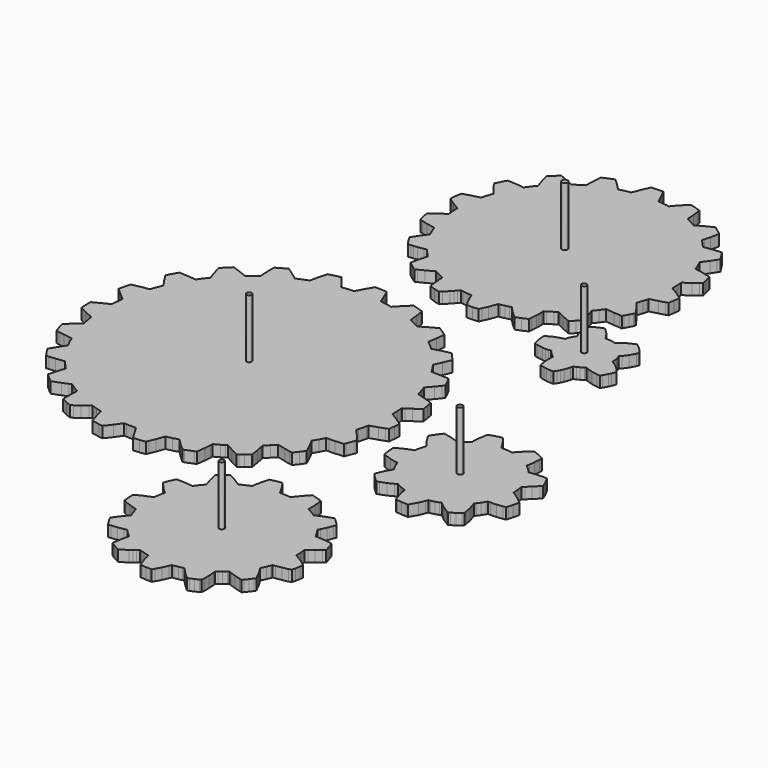
from build123d import *

# Parameters (mm, degrees)
F1_DEPTH = 4
F3_DEPTH = 4
F4_DEPTH = 4
F5_DEPTH = 4
F6_DEPTH = 4
F7_DEPTH = 4
F8_R     = 0.914457
F8_R_2   = 0.968889
F8_R_3   = 0.945783
F8_R_4   = 0.937892
F8_R_5   = 1.083862
F9_DEPTH = 25.4


with BuildPart() as f1:
    # F0 (on Top) → F1 (new body)
    with BuildSketch(Plane.XY):
        Polygon((23.910849, -18.788659), (23.914684, -18.643397), (23.859592, -16.48648), (23.773816, -15.006523), (23.722686, -14.334515), (24.540794, -13.82301), (26.317296, -12.649937), (28.841471, -10.826115), (28.51216, -8.70392), (28.251937, -7.249947), (28.153843, -6.773291), (28.112491, -6.593332), (25.068098, -5.558231), (22.974757, -4.945431), (22.01545, -4.695546), (21.791879, -3.908146), (21.356117, -2.49268), (20.881442, -1.089304), (20.654035, -0.455651), (22.678238, 1.862709), (24.035537, 3.534664), (24.624005, 4.30751), (23.73851, 6.265189), (22.764369, 8.179943), (21.765565, 8.255381), (19.555257, 8.350021), (16.396183, 8.360639), (16.321049, 8.484819), (15.157298, 10.299624), (13.919251, 12.064441), (15.247925, 14.84851), (16.461613, 17.728235), (16.347465, 17.873243), (16.037077, 18.247766), (14.087983, 20.465339), (13.625144, 20.951266), (10.499446, 20.262266), (7.43618, 19.405422), (6.843751, 19.971131), (4.591507, 21.898813), (4.061485, 22.314891), (4.603471, 25.366167), (4.987773, 28.4496), (3.877259, 29.233063), (1.970253, 30.455997), (1.398829, 30.807889), (-1.437615, 29.285667), (-3.313252, 28.17683), (-4.151249, 27.645868), (-4.87995, 28.01907), (-6.211494, 28.668218), (-8.006969, 29.478656), (-8.179333, 29.546372), (-8.490763, 32.607428), (-8.784819, 34.741764), (-8.947658, 35.699065), (-10.983265, 36.387507), (-13.047751, 36.983137), (-15.362555, 34.756065), (-17.527321, 32.450354), (-17.668697, 32.483146), (-17.849977, 32.520915), (-19.789496, 32.866787), (-21.255431, 33.08129), (-21.923756, 33.166177), (-22.260103, 34.070315), (-23.05177, 36.046461), (-24.330101, 38.885495), (-26.473709, 38.990524), (-27.948915, 39.027354), (-28.619475, 39.027938), (-30.249774, 36.252353), (-31.716701, 33.443418), (-34.009889, 33.250353), (-36.148594, 32.978877), (-36.712881, 33.750885), (-38.002286, 35.429673), (-39.359916, 37.096268), (-39.998701, 37.845416), (-42.092499, 37.362689), (-43.521528, 36.989817), (-44.167552, 36.806505), (-44.444666, 35.839527), (-44.994195, 33.710118), (-45.644867, 30.603901), (-45.957846, 30.498288), (-46.417281, 30.333518), (-48.531729, 29.499916), (-49.775948, 28.941674), (-50.531624, 29.537762), (-52.237183, 30.822214), (-54.802253, 32.580199), (-55.399661, 32.273824), (-57.970471, 30.820106), (-58.387005, 30.568671), (-58.542504, 30.46918), (-58.492314, 27.2542), (-58.43938, 26.095985), (-58.27809, 24.088496), (-59.508771, 23.214203), (-61.297617, 21.809989), (-61.674985, 21.499932), (-61.814939, 21.378443), (-64.681202, 22.512299), (-67.632859, 23.524185), (-69.181904, 22.037116), (-70.663943, 20.483068), (-70.400951, 19.51609), (-69.749441, 17.398162), (-69.047385, 15.338273), (-68.704587, 14.41544), (-70.126809, 12.605969), (-71.376616, 10.849077), (-72.335542, 10.969625), (-74.439094, 11.170234), (-77.565301, 11.358372), (-77.661745, 11.201019), (-79.031846, 8.813952), (-79.652292, 7.604252), (-79.134233, 6.741287), (-77.955013, 4.886452), (-76.128931, 2.289226), (-76.459893, 1.540637), (-77.002792, 0.162154), (-77.520292, -1.225601), (-77.735887, -1.863547), (-80.791939, -2.376881), (-83.825563, -3.051378), (-84.008722, -3.697453), (-84.367903, -5.129987), (-84.807806, -7.044131), (-84.840445, -7.225843), (-82.449314, -9.384563), (-79.993846, -11.386972), (-80.265549, -13.671652), (-80.429329, -15.822016), (-81.300396, -16.219424), (-83.203644, -17.144009), (-85.974784, -18.610097), (-85.902317, -21.543696), (-85.803384, -22.898837), (-82.947815, -24.340414), (-80.03032, -25.611734), (-79.927679, -26.424153), (-79.406699, -29.341166), (-79.254731, -29.997248), (-81.593741, -32.019697), (-83.150329, -33.485023), (-83.8438, -34.171204), (-83.234581, -36.231474), (-82.545657, -38.266929), (-81.557165, -38.474904), (-79.38069, -38.8715), (-77.232942, -39.195578), (-76.248717, -39.31158), (-75.295049, -41.404743), (-74.312424, -43.323104), (-74.85413, -44.117108), (-75.999137, -45.89587), (-77.601242, -48.588955), (-76.442367, -50.397512), (-75.610237, -51.616889), (-75.221363, -52.163929), (-74.218165, -52.10015), (-72.025408, -51.900353), (-68.88386, -51.473684), (-68.794198, -51.587959), (-68.365446, -52.107541), (-66.872866, -53.823438), (-65.930755, -54.810685), (-66.24099, -55.723612), (-66.876041, -57.755231), (-67.681145, -60.764979), (-67.195116, -61.227691), (-64.96751, -63.16566), (-64.440181, -63.580772), (-61.431272, -62.468328), (-59.414867, -61.61532), (-58.514742, -61.206939), (-57.847509, -61.681843), (-55.363999, -63.299594), (-54.779697, -63.634823), (-54.896182, -66.721406), (-54.889781, -68.862042), (-54.861638, -69.836538), (-52.940763, -70.79808), (-50.98288, -71.683093), (-50.156415, -71.104328), (-48.380066, -69.78462), (-46.676285, -68.436388), (-45.919898, -67.797858), (-43.740019, -68.531232), (-41.667024, -69.119598), (-41.457855, -70.06176), (-40.939136, -72.110041), (-40.063725, -75.117274), (-39.883436, -75.156949), (-37.173611, -75.640971), (-35.825989, -75.817908), (-33.839023, -73.310572), (-32.006362, -70.708063), (-31.189574, -70.77075), (-28.224429, -70.852589), (-27.550415, -70.834936), (-26.044373, -73.531578), (-24.92662, -75.360581), (-24.396598, -76.177318), (-22.256191, -76.006503), (-20.125284, -75.73612), (-19.71769, -74.822837), (-18.884748, -72.768993), (-17.810531, -69.800699), (-15.568955, -69.285053), (-13.491972, -68.712105), (-12.823901, -69.410758), (-11.315624, -70.901154), (-9.010853, -73.007271), (-8.376514, -72.787281), (-5.632298, -71.693176), (-5.020285, -71.416977), (-4.625111, -68.237989), (-4.460189, -66.050744), (-4.409694, -65.064919), (-4.280484, -64.998778), (-2.389276, -63.965887), (-1.107694, -63.221972), (-0.540791, -62.857888), (2.151024, -64.379704), (4.053815, -65.35199), (4.933417, -65.775027), (5.480355, -65.386001), (6.667119, -64.508151), (8.355432, -63.180798), (8.215833, -62.175136), (7.862468, -59.994749), (7.44822, -57.861733), (7.226046, -56.892749), (8.879459, -55.292015), (10.366985, -53.730754), (13.352221, -54.459048), (15.459837, -54.896131), (16.420363, -55.067429), (17.74731, -53.378786), (19.003213, -51.636828), (18.610936, -50.713869), (17.684979, -48.708564), (16.242538, -45.893761), (16.321049, -45.771613), (17.398009, -43.904357), (18.398846, -41.995852), (19.364833, -41.984397), (21.48525, -41.900958), (24.596547, -41.655136), (24.870105, -41.042006), (25.944932, -38.290119), (26.160628, -37.654154), (24.106861, -35.194062), (22.622662, -33.580553), (21.9361, -32.870445), (22.160078, -32.083172), (22.846386, -29.201034), (22.965842, -28.538195), (25.908991, -27.608047), (27.926513, -26.881684), (28.833039, -26.52682), (29.096056, -24.395227), (29.259301, -22.254083), (28.446552, -21.671051), (26.603249, -20.441488), align=None)
    extrude(amount=F1_DEPTH)


with BuildPart() as f3:
    # F2 (on Top) → F3 (new body)
    with BuildSketch(Plane.XY):
        Polygon((26.603249, -20.441488), (23.910849, -18.788659), (23.914684, -18.643397), (23.859592, -16.48648), (23.773816, -15.006523), (23.722686, -14.334515), (24.540794, -13.82301), (26.317296, -12.649937), (28.841471, -10.826115), (28.51216, -8.70392), (28.251937, -7.249947), (28.153843, -6.773291), (28.112491, -6.593332), (25.068098, -5.558231), (22.974757, -4.945431), (22.01545, -4.695546), (21.791879, -3.908146), (21.356117, -2.49268), (20.881442, -1.089304), (20.654035, -0.455651), (22.678238, 1.862709), (24.035537, 3.534664), (24.624005, 4.30751), (23.73851, 6.265189), (22.764369, 8.179943), (21.765565, 8.255381), (19.555257, 8.350021), (16.396183, 8.360639), (16.321049, 8.484819), (15.157298, 10.299624), (13.919251, 12.064441), (15.247925, 14.84851), (16.461613, 17.728235), (16.347465, 17.873243), (16.037077, 18.247766), (14.087983, 20.465339), (13.625144, 20.951266), (10.499446, 20.262266), (7.43618, 19.405422), (6.843751, 19.971131), (4.591507, 21.898813), (4.061485, 22.314891), (4.603471, 25.366167), (4.987773, 28.4496), (3.877259, 29.233063), (1.970253, 30.455997), (1.398829, 30.807889), (-1.437615, 29.285667), (-3.313252, 28.17683), (-4.151249, 27.645868), (-4.87995, 28.01907), (-6.211494, 28.668218), (-8.006969, 29.478656), (-8.179333, 29.546372), (-8.490763, 32.607428), (-8.784819, 34.741764), (-8.947658, 35.699065), (-10.983265, 36.387507), (-13.047751, 36.983137), (-15.362555, 34.756065), (-17.527321, 32.450354), (-17.668697, 32.483146), (-17.849977, 32.520915), (-19.789496, 32.866787), (-21.255431, 33.08129), (-21.923756, 33.166177), (-22.260103, 34.070315), (-23.05177, 36.046461), (-24.330101, 38.885495), (-26.473709, 38.990524), (-27.948915, 39.027354), (-28.619475, 39.027938), (-30.249774, 36.252353), (-31.716701, 33.443418), (-34.009889, 33.250353), (-36.148594, 32.978877), (-36.712881, 33.750885), (-38.002286, 35.429673), (-39.359916, 37.096268), (-39.998701, 37.845416), (-42.092499, 37.362689), (-43.521528, 36.989817), (-44.167552, 36.806505), (-44.444666, 35.839527), (-44.994195, 33.710118), (-45.644867, 30.603901), (-45.957846, 30.498288), (-46.417281, 30.333518), (-48.531729, 29.499916), (-49.775948, 28.941674), (-50.531624, 29.537762), (-52.237183, 30.822214), (-54.802253, 32.580199), (-55.399661, 32.273824), (-57.970471, 30.820106), (-58.387005, 30.568671), (-58.542504, 30.46918), (-58.492314, 27.2542), (-58.43938, 26.095985), (-58.27809, 24.088496), (-59.508771, 23.214203), (-61.297617, 21.809989), (-61.674985, 21.499932), (-61.814939, 21.378443), (-64.681202, 22.512299), (-67.632859, 23.524185), (-69.181904, 22.037116), (-70.663943, 20.483068), (-70.400951, 19.51609), (-69.749441, 17.398162), (-69.047385, 15.338273), (-68.704587, 14.41544), (-70.126809, 12.605969), (-71.376616, 10.849077), (-72.335542, 10.969625), (-74.439094, 11.170234), (-77.565301, 11.358372), (-77.661745, 11.201019), (-79.031846, 8.813952), (-79.652292, 7.604252), (-79.134233, 6.741287), (-77.955013, 4.886452), (-76.128931, 2.289226), (-76.459893, 1.540637), (-77.002792, 0.162154), (-77.520292, -1.225601), (-77.735887, -1.863547), (-80.791939, -2.376881), (-83.825563, -3.051378), (-84.008722, -3.697453), (-84.367903, -5.129987), (-84.807806, -7.044131), (-84.840445, -7.225843), (-82.449314, -9.384563), (-79.993846, -11.386972), (-80.265549, -13.671652), (-80.429329, -15.822016), (-81.300396, -16.219424), (-83.203644, -17.144009), (-85.974784, -18.610097), (-85.902317, -21.543696), (-85.803384, -22.898837), (-82.947815, -24.340414), (-80.03032, -25.611734), (-79.927679, -26.424153), (-79.406699, -29.341166), (-79.254731, -29.997248), (-81.593741, -32.019697), (-83.150329, -33.485023), (-83.8438, -34.171204), (-83.234581, -36.231474), (-82.545657, -38.266929), (-81.557165, -38.474904), (-79.38069, -38.8715), (-77.232942, -39.195578), (-76.248717, -39.31158), (-75.295049, -41.404743), (-74.312424, -43.323104), (-74.85413, -44.117108), (-75.999137, -45.89587), (-77.601242, -48.588955), (-76.442367, -50.397512), (-75.610237, -51.616889), (-75.221363, -52.163929), (-74.218165, -52.10015), (-72.025408, -51.900353), (-68.88386, -51.473684), (-68.794198, -51.587959), (-68.365446, -52.107541), (-66.872866, -53.823438), (-65.930755, -54.810685), (-66.24099, -55.723612), (-66.876041, -57.755231), (-67.681145, -60.764979), (-67.195116, -61.227691), (-64.96751, -63.16566), (-64.440181, -63.580772), (-61.431272, -62.468328), (-59.414867, -61.61532), (-58.514742, -61.206939), (-57.847509, -61.681843), (-55.363999, -63.299594), (-54.779697, -63.634823), (-54.896182, -66.721406), (-54.889781, -68.862042), (-54.861638, -69.836538), (-52.940763, -70.79808), (-50.98288, -71.683093), (-50.156415, -71.104328), (-48.380066, -69.78462), (-46.676285, -68.436388), (-45.919898, -67.797858), (-43.740019, -68.531232), (-41.667024, -69.119598), (-41.457855, -70.06176), (-40.939136, -72.110041), (-40.063725, -75.117274), (-39.883436, -75.156949), (-37.173611, -75.640971), (-35.825989, -75.817908), (-33.839023, -73.310572), (-32.006362, -70.708063), (-31.189574, -70.77075), (-28.224429, -70.852589), (-27.550415, -70.834936), (-26.044373, -73.531578), (-24.92662, -75.360581), (-24.396598, -76.177318), (-22.256191, -76.006503), (-20.125284, -75.73612), (-19.71769, -74.822837), (-18.884748, -72.768993), (-17.810531, -69.800699), (-15.568955, -69.285053), (-13.491972, -68.712105), (-12.823901, -69.410758), (-11.315624, -70.901154), (-9.010853, -73.007271), (-8.376514, -72.787281), (-5.632298, -71.693176), (-5.020285, -71.416977), (-4.625111, -68.237989), (-4.460189, -66.050744), (-4.409694, -65.064919), (-4.280484, -64.998778), (-2.389276, -63.965887), (-1.107694, -63.221972), (-0.540791, -62.857888), (2.151024, -64.379704), (4.053815, -65.35199), (4.933417, -65.775027), (5.480355, -65.386001), (6.667119, -64.508151), (8.355432, -63.180798), (8.215833, -62.175136), (7.862468, -59.994749), (7.44822, -57.861733), (7.226046, -56.892749), (8.879459, -55.292015), (10.366985, -53.730754), (13.352221, -54.459048), (15.459837, -54.896131), (16.420363, -55.067429), (17.74731, -53.378786), (19.003213, -51.636828), (18.610936, -50.713869), (17.684979, -48.708564), (16.242538, -45.893761), (16.321049, -45.771613), (17.398009, -43.904357), (18.398846, -41.995852), (19.364833, -41.984397), (21.48525, -41.900958), (24.596547, -41.655136), (24.870105, -41.042006), (25.944932, -38.290119), (26.160628, -37.654154), (24.106861, -35.194062), (22.622662, -33.580553), (21.9361, -32.870445), (22.160078, -32.083172), (22.846386, -29.201034), (22.965842, -28.538195), (25.908991, -27.608047), (27.926513, -26.881684), (28.833039, -26.52682), (29.096056, -24.395227), (29.259301, -22.254083), (28.446552, -21.671051), align=None)
        Polygon((-29.022954, -17.909489), (-28.357754, -17.63395), (-27.692528, -17.909489), (-27.416989, -18.57469), (-27.692528, -19.23989), (-28.357754, -19.51543), (-29.022954, -19.23989), (-29.298494, -18.57469), align=None, mode=Mode.SUBTRACT)
    extrude(amount=F3_DEPTH)


with BuildPart() as f4:
    # F2 (on Top) → F4 (new body)
    with BuildSketch(Plane.XY):
        Polygon((57.682079, -104.086838), (56.839764, -103.621256), (56.843422, -103.488312), (56.826963, -102.871422), (56.763234, -101.516307), (56.70898, -100.793906), (56.554929, -99.555859), (57.33735, -99.026218), (59.023275, -97.776462), (60.652203, -96.413091), (61.376941, -95.755079), (61.335336, -95.575958), (61.212781, -95.107074), (60.803511, -93.694123), (60.330385, -92.301162), (60.085808, -91.678811), (59.09785, -91.502865), (56.927191, -91.22344), (54.781323, -91.083994), (53.812973, -91.067636), (53.675559, -90.798599), (53.461133, -90.407033), (52.772945, -89.239827), (52.026972, -88.108358), (51.669874, -87.606124), (52.118946, -86.769448), (53.024176, -84.880018), (53.831592, -82.913703), (54.16583, -81.994883), (54.045434, -81.856174), (53.720162, -81.497576), (52.701215, -80.439006), (51.635736, -79.427146), (51.131292, -78.989301), (48.12251, -80.051529), (47.065514, -80.49735), (46.155661, -80.923079), (45.290435, -81.356149), (45.182282, -81.27906), (44.671412, -80.934814), (43.520893, -80.21889), (42.336212, -79.561741), (41.788131, -79.280817), (41.79763, -78.333371), (41.724783, -76.238024), (41.527146, -74.122305), (41.396539, -73.15261), (41.225394, -73.085376), (40.770023, -72.919488), (39.374369, -72.454618), (37.959005, -72.053272), (37.307672, -71.902117), (36.601959, -72.616212), (35.139935, -74.244556), (33.807171, -75.930709), (33.243571, -76.720548), (32.500011, -76.631521), (31.147207, -76.53368), (29.790034, -76.502616), (29.17317, -76.518948), (28.740303, -75.675033), (27.702231, -73.852913), (26.544626, -72.060562), (25.98039, -71.270597), (25.317501, -71.354975), (23.86678, -71.593278), (22.427921, -71.89663), (21.776588, -72.04776), (20.940903, -75.128958), (20.543749, -77.247445), (20.409433, -78.203984), (19.713397, -78.478736), (18.471667, -79.019171), (17.258487, -79.621583), (16.864406, -79.831311), (16.71767, -79.915969), (15.94452, -79.375203), (14.174267, -78.242719), (12.316485, -77.201395), (11.446586, -76.762381), (10.901985, -77.149401), (9.729902, -78.035556), (8.598967, -78.97335), (8.094497, -79.41117), (8.286115, -80.402836), (8.788349, -82.525794), (9.420631, -84.586267), (9.746209, -85.49673), (9.255785, -86.063201), (8.40519, -87.11885), (7.608468, -88.215546), (7.358253, -88.585497), (7.266991, -88.728245), (6.33029, -88.606478), (4.237965, -88.423267), (2.106905, -88.359513), (1.134821, -88.374804), (0.830021, -88.969723), (0.202057, -90.299311), (-0.365023, -91.656154), (-0.609625, -92.278454), (0.021514, -93.068521), (1.452169, -94.715025), (2.971571, -96.244588), (3.682213, -96.897901), (3.514293, -97.627161), (3.25501, -98.956444), (3.006776, -100.740794), (2.994279, -100.909882), (0.170688, -102.053339), (-2.598852, -103.455165), (-2.584425, -104.122322), (-2.525192, -105.589273), (-2.40091, -107.053202), (-2.317064, -107.716142), (-1.403502, -108.124904), (0.638302, -108.918604), (1.723923, -109.286294), (2.688565, -109.570672), (3.622904, -109.82005), (3.652596, -109.949361), (3.806647, -110.545194), (4.193032, -111.842855), (4.644669, -113.119281), (4.870425, -113.692026), (4.233647, -114.396444), (2.902483, -116.013738), (1.648181, -117.730245), (1.104494, -118.542714), (1.188466, -118.70624), (1.417955, -119.132909), (2.155165, -120.404941), (2.949016, -121.642251), (3.335579, -122.187157), (4.336847, -122.12066), (6.51096, -121.87174), (8.628329, -121.493864), (9.572473, -121.278853), (9.770161, -121.507631), (10.072827, -121.836307), (11.020222, -122.806333), (12.014683, -123.727921), (12.480519, -124.131603), (12.244629, -125.049915), (11.8142, -127.101778), (11.498631, -129.203171), (11.392433, -130.175787), (11.542293, -130.282086), (11.944604, -130.551707), (13.18702, -131.337279), (14.463852, -132.066233), (15.058542, -132.371516), (17.726482, -130.62077), (18.645734, -129.934919), (19.426885, -129.303221), (20.162698, -128.674952), (20.443495, -128.786128), (20.863916, -128.935556), (22.15167, -129.353716), (23.458957, -129.706319), (24.058855, -129.844775), (24.277041, -130.770554), (24.853417, -132.782335), (25.554254, -134.790586), (25.914528, -135.697671), (26.577671, -135.779281), (28.042718, -135.890914), (29.510177, -135.935695), (30.177334, -135.936279), (30.691709, -135.068945), (31.724473, -133.145378), (32.620026, -131.192676), (32.980122, -130.289706), (33.723097, -130.195472), (35.058807, -129.969616), (36.38108, -129.676931), (36.813261, -129.56601), (36.97605, -129.519528), (37.596343, -130.231439), (39.041832, -131.755972), (40.595626, -133.214135), (41.334715, -133.848297), (41.956838, -133.603238), (43.308168, -133.023178), (44.631635, -132.382616), (45.226326, -132.077384), (45.244715, -131.802073), (45.277634, -131.069258), (45.296836, -128.888211), (45.172808, -126.73518), (45.074154, -125.774679), (45.684415, -125.340339), (46.761705, -124.51748), (47.79678, -123.641815), (48.129012, -123.34306), (48.251542, -123.225916), (49.131931, -123.566784), (51.120827, -124.243846), (53.174113, -124.813593), (54.122345, -125.031856), (54.559784, -124.527056), (55.487011, -123.387358), (56.362143, -122.20702), (56.748756, -121.662114), (55.331335, -118.801261), (54.226739, -116.951938), (53.692222, -116.145361), (53.752547, -116.027149), (54.60586, -114.251588), (55.115587, -112.997005), (55.270146, -112.578439), (55.324172, -112.418012), (56.262118, -112.311256), (58.337806, -111.986466), (60.419691, -111.534651), (61.361904, -111.286239), (61.662996, -109.966227), (61.938687, -108.419671), (62.109706, -107.077358), (61.313644, -106.46344), (59.524265, -105.208654), align=None)
        Polygon((29.027857, -102.875867), (29.755414, -102.574496), (30.482997, -102.875867), (30.784368, -103.60345), (30.482997, -104.331008), (29.755414, -104.632379), (29.027857, -104.331008), (28.726486, -103.60345), align=None, mode=Mode.SUBTRACT)
    extrude(amount=F4_DEPTH)


with BuildPart() as f5:
    # F2 (on Top) → F5 (new body)
    with BuildSketch(Plane.XY):
        Polygon((42.693412, -41.099867), (43.651348, -41.26611), (43.694528, -41.394913), (44.485839, -43.249875), (44.823558, -43.909615), (45.143572, -44.471514), (45.469937, -45.011365), (43.991606, -47.702648), (43.148783, -49.694084), (42.813275, -50.635637), (44.398184, -52.356334), (45.581291, -53.446197), (45.982484, -53.792882), (46.138617, -53.919628), (47.125179, -53.608859), (49.204956, -52.807235), (51.157124, -51.843711), (51.770432, -51.492607), (52.000125, -51.353415), (52.118057, -51.421081), (53.914853, -52.337691), (54.597351, -52.625269), (55.200042, -52.857984), (55.797221, -53.059787), (55.941595, -53.999435), (56.392547, -56.071922), (57.027623, -58.140448), (57.378016, -59.071281), (58.099985, -59.191474), (59.699347, -59.368182), (61.304881, -59.44522), (62.035157, -59.445855), (63.66825, -56.626201), (64.544931, -54.633114), (64.789202, -53.969945), (64.875664, -53.715615), (65.629536, -53.576906), (66.974263, -53.239086), (68.293691, -52.813534), (68.879974, -52.581759), (69.074132, -52.757959), (69.595517, -53.210612), (71.273264, -54.508146), (73.089008, -55.684395), (73.955377, -56.172227), (74.585474, -55.800168), (75.924994, -54.908171), (77.20711, -53.936163), (77.765224, -53.463647), (77.63543, -52.445082), (77.203833, -50.256618), (76.590474, -48.164928), (76.25334, -47.249004), (76.456438, -47.01507), (76.738709, -46.654644), (77.561262, -45.535825), (78.290217, -44.354648), (78.51841, -43.958205), (78.597049, -43.80357), (79.545993, -43.824474), (81.664505, -43.742381), (83.811008, -43.478552), (84.798535, -43.299939), (85.034018, -42.606341), (85.49574, -41.062885), (85.974784, -38.770001), (85.211742, -38.072365), (83.473722, -36.675212), (81.659628, -35.46889), (80.817669, -34.98408), (80.82153, -34.847784), (80.804741, -34.215502), (80.714875, -32.828687), (80.515257, -31.45536), (80.435679, -31.005069), (80.397121, -30.836032), (81.136617, -30.24251), (82.706921, -28.817976), (84.181721, -27.235887), (84.82203, -26.464565), (84.557718, -25.781584), (83.918476, -24.303203), (82.813525, -22.238716), (82.531636, -22.220453), (81.780736, -22.194444), (79.551225, -22.240672), (78.390674, -22.342602), (77.386586, -22.482632), (76.432029, -22.651974), (75.929211, -22.071889), (75.486438, -21.599754), (74.962588, -21.07438), (73.930916, -20.144207), (73.43714, -19.75071), (73.62665, -18.813729), (73.913975, -16.712209), (74.027843, -14.55293), (74.018419, -13.559638), (73.382734, -13.196875), (71.939785, -12.481916), (69.766942, -11.607165), (68.947665, -12.232056), (67.268776, -13.698042), (65.766848, -15.27363), (65.143278, -16.027883), (65.009471, -16.004007), (63.005589, -15.760827), (62.263909, -15.72514), (61.615803, -15.711526), (60.983495, -15.72801), (60.861169, -15.495905), (60.526117, -14.891182), (59.395563, -13.095046), (58.095159, -11.366068), (57.449644, -10.611561), (56.729046, -10.741076), (55.163644, -11.121314), (54.336391, -11.358575), (53.624988, -11.59858), (52.936445, -11.847703), (52.36784, -15.056917), (52.229664, -17.229049), (52.235938, -18.206695), (52.118057, -18.274513), (50.425833, -19.374764), (49.835892, -19.824319), (49.333963, -20.232751), (48.856316, -20.645958), (47.972955, -20.304963), (45.95307, -19.65899), (43.845785, -19.172403), (42.860773, -19.00494), (42.399382, -19.572275), (41.938473, -20.163587), (41.439948, -20.863916), (40.566467, -22.215627), (40.201418, -22.850018), (40.675306, -23.76617), (41.827374, -25.67625), (43.117821, -27.431213), (43.742915, -28.173756), (43.694528, -28.30068), (43.49303, -28.897961), (43.303749, -29.515511), (43.109413, -30.230064), (42.942459, -30.95183), (42.827651, -31.587973), (42.73075, -32.211188), (41.830574, -32.517867), (39.869897, -33.323479), (37.944552, -34.306739), (37.077904, -34.811513), (37.093754, -35.541814), (37.187251, -37.146814), (37.387225, -38.743712), (37.515622, -39.464513), (37.77488, -39.578509), (38.466598, -39.862227), (40.576703, -40.585187), align=None)
        Polygon((60.78634, -34.288705), (61.526344, -33.982203), (62.266347, -34.288705), (62.572849, -35.028708), (62.266347, -35.768712), (61.526344, -36.075214), (60.78634, -35.768712), (60.479838, -35.028708), align=None, mode=Mode.SUBTRACT)
    extrude(amount=F5_DEPTH)


with BuildPart() as f6:
    # F2 (on Top) → F6 (new body)
    with BuildSketch(Plane.XY):
        Polygon((53.357475, 44.841058), (52.527632, 45.310298), (52.53548, 45.435749), (52.502714, 46.017586), (52.354124, 47.286113), (52.195197, 47.947986), (52.03124, 48.518293), (51.831951, 49.062513), (52.014679, 49.249254), (52.467307, 49.7554), (53.719019, 51.469366), (54.733546, 53.416378), (55.006824, 54.100451), (55.102658, 54.3655), (54.612616, 55.018127), (54.063087, 55.647717), (53.405202, 56.343982), (52.046911, 57.514922), (51.392277, 58.002272), (51.114122, 57.911619), (50.385421, 57.632346), (48.354209, 56.621807), (46.591347, 55.350689), (45.887488, 54.698951), (45.770521, 54.742918), (45.619975, 54.794887), (44.635496, 55.038422), (43.960999, 55.140098), (43.280152, 55.194886), (42.683735, 55.221378), (42.101897, 55.189603), (41.637509, 56.021783), (40.398598, 57.731863), (38.864362, 59.296198), (38.292735, 59.786114), (38.070942, 59.957411), (37.302364, 59.678113), (35.66254, 58.944129), (34.831604, 58.465314), (34.123478, 58.019925), (33.468691, 57.532803), (33.469732, 57.23956), (33.500314, 56.47469), (33.835645, 54.231032), (34.498712, 52.160526), (34.909862, 51.280847), (34.626626, 50.907315), (34.195182, 50.194616), (33.738718, 49.273993), (33.416773, 48.402443), (33.269428, 47.842119), (32.337858, 47.65675), (30.330699, 47.002878), (29.780052, 46.770798), (29.272357, 46.521268), (28.370124, 46.025511), (27.489963, 45.47616), (27.496059, 45.252361), (27.574164, 43.828564), (27.79268, 42.397883), (28.114269, 41.127299), (28.295117, 40.563444), (28.371724, 40.352015), (29.391381, 40.054301), (31.630442, 39.68082), (32.805624, 39.635227), (33.805012, 39.675791), (34.495461, 39.749527), (34.759087, 39.790776), (35.180702, 39.223594), (35.806837, 38.53241), (36.572215, 37.842495), (37.050548, 37.487073), (37.394921, 37.245061), (37.532031, 37.163121), (37.424817, 36.228579), (37.419788, 34.113724), (37.544959, 32.947686), (37.740209, 31.942659), (37.994463, 30.941467), (38.206147, 30.865775), (39.59164, 30.508423), (40.538425, 30.352644), (42.324096, 30.196638), (42.914189, 30.185258), (43.138039, 30.195266), (43.734634, 31.080304), (44.269355, 31.999123), (44.783578, 33.092339), (45.463079, 35.157004), (45.653503, 36.084713), (46.577961, 36.425454), (47.471127, 36.864087), (48.540416, 37.561799), (48.879023, 37.812828), (49.00483, 37.911329), (49.853266, 37.531294), (51.866825, 36.872189), (54.033166, 36.503077), (55.054246, 36.440897), (55.188079, 36.62106), (55.522851, 37.108333), (56.408853, 38.669849), (56.819165, 39.537894), (57.310757, 40.881706), (57.369913, 41.098495), (56.70644, 41.941979), (56.002149, 42.733163), (55.113834, 43.558968), (54.207359, 44.284519), align=None)
        Polygon((41.70238, 45.798892), (42.429938, 46.100263), (43.157496, 45.798892), (43.458867, 45.071335), (43.157496, 44.343777), (42.429938, 44.042406), (41.70238, 44.343777), (41.401009, 45.071335), align=None, mode=Mode.SUBTRACT)
    extrude(amount=F6_DEPTH)


with BuildPart() as f7:
    # F2 (on Top) → F7 (new body)
    with BuildSketch(Plane.XY):
        Polygon((-43.37779, 93.062476), (-40.684323, 91.449957), (-40.688057, 91.310689), (-40.633142, 89.24323), (-40.489886, 87.359287), (-40.470201, 87.182858), (-43.009083, 85.479306), (-44.718757, 84.204048), (-45.478522, 83.59742), (-45.239178, 82.274766), (-44.73194, 80.092372), (-44.551194, 79.453511), (-43.584368, 79.176245), (-41.466338, 78.639365), (-38.379984, 78.046555), (-38.33561, 77.914754), (-38.273812, 77.748486), (-37.577751, 75.994108), (-36.992509, 74.700536), (-36.71603, 74.117556), (-38.519557, 71.6423), (-39.681379, 69.859423), (-40.18849, 69.027192), (-39.083234, 67.214547), (-38.277521, 65.997557), (-37.893193, 65.456689), (-36.893754, 65.525752), (-35.880192, 65.61488), (-34.712961, 65.753869), (-32.574027, 66.07368), (-31.614516, 66.250718), (-30.151299, 64.600506), (-29.168852, 63.574041), (-28.700933, 63.128804), (-28.984956, 62.219129), (-29.557701, 60.180372), (-30.236617, 57.151702), (-30.098594, 57.032398), (-29.727703, 56.726379), (-28.580182, 55.824349), (-26.862557, 54.576904), (-25.948335, 54.979367), (-23.970412, 55.9435), (-21.224138, 57.470675), (-20.544003, 57.079363), (-19.289344, 56.415), (-18.014213, 55.791227), (-17.426127, 55.525467), (-17.384624, 54.568827), (-17.221606, 52.468145), (-16.970096, 50.348718), (-16.827449, 49.377244), (-14.81488, 48.696321), (-12.771323, 48.115068), (-12.047601, 48.819537), (-10.523144, 50.396521), (-9.748495, 51.24892), (-9.090508, 52.021156), (-8.46902, 52.778228), (-7.696784, 52.639773), (-5.536768, 52.354658), (-4.232453, 52.256258), (-3.864762, 51.371221), (-2.990469, 49.455273), (-1.562659, 46.685073), (0.55819, 46.736813), (2.675179, 46.887155), (3.116631, 47.786417), (4.01287, 49.794643), (5.135728, 52.729257), (5.908065, 52.867001), (7.296048, 53.163724), (8.674024, 53.503576), (9.294647, 53.680081), (10.621797, 52.258112), (11.417376, 51.467385), (13.705535, 49.356035), (13.877315, 49.417757), (15.683967, 50.129923), (17.622926, 50.997333), (17.726406, 51.998194), (17.879568, 54.188157), (17.925212, 55.339132), (17.933873, 56.352288), (17.923459, 57.332016), (18.603951, 57.722719), (20.440777, 58.894447), (21.506155, 59.652611), (22.357588, 59.209356), (24.255984, 58.307326), (26.221665, 57.461988), (27.127302, 57.108598), (28.721075, 58.510449), (29.777385, 59.517534), (30.246726, 59.986113), (29.40624, 63.066092), (28.372562, 66.040483), (28.580258, 66.279725), (29.753509, 67.760012), (30.956199, 69.440069), (33.994573, 69.115076), (36.124007, 68.993639), (37.096167, 68.970017), (37.426849, 69.545454), (38.116789, 70.831939), (38.773633, 72.135975), (39.047572, 72.740672), (38.486588, 73.573869), (37.206047, 75.347982), (35.228479, 77.784173), (35.27618, 77.914754), (35.927487, 79.873907), (36.315167, 81.239512), (36.434751, 81.691658), (36.474425, 81.864606), (39.449908, 82.600927), (41.483864, 83.220687), (42.407484, 83.532472), (42.72501, 85.631782), (42.942688, 87.743055), (42.130574, 88.332462), (40.318334, 89.558927), (37.624868, 91.171446), (37.628627, 91.310689), (37.573712, 93.378172), (37.430431, 95.26209), (37.410771, 95.438544), (39.949628, 97.142071), (41.659327, 98.417329), (42.419067, 99.023957), (42.179748, 100.346612), (41.672485, 102.529005), (41.491738, 103.167866), (40.524938, 103.445158), (38.406883, 103.982012), (35.320554, 104.574823), (35.27618, 104.706623), (35.214357, 104.872892), (34.518321, 106.62727), (33.933054, 107.920841), (33.6566, 108.503822), (35.460102, 110.979077), (36.621949, 112.761954), (37.129034, 113.594185), (36.023779, 115.406856), (35.218065, 116.623795), (34.833763, 117.164714), (33.834324, 117.095626), (32.820737, 117.006497), (31.653505, 116.867508), (29.514597, 116.547697), (28.555061, 116.370659), (27.091869, 118.020871), (26.109397, 119.047336), (25.641503, 119.492573), (25.925501, 120.402248), (26.498271, 122.441005), (27.177162, 125.469675), (27.039164, 125.588979), (26.668273, 125.894998), (25.520752, 126.797029), (23.803127, 128.044473), (22.88888, 127.64201), (20.910982, 126.677877), (18.164708, 125.150702), (17.484547, 125.542015), (16.229889, 126.206377), (14.954758, 126.83015), (14.366672, 127.09591), (14.325168, 128.052551), (14.162176, 130.153232), (13.91064, 132.272659), (13.767994, 133.244107), (11.75545, 133.925056), (9.711893, 134.50631), (8.988146, 133.801866), (7.463688, 132.224856), (6.689065, 131.372483), (6.031052, 130.600221), (5.409565, 129.843149), (4.637354, 129.981604), (2.477338, 130.266719), (1.173023, 130.365119), (0.805332, 131.250157), (-0.068961, 133.166104), (-1.496797, 135.936304), (-3.617646, 135.884564), (-5.734634, 135.734222), (-6.176086, 134.83496), (-7.072325, 132.826735), (-8.195158, 129.89212), (-8.967495, 129.754376), (-10.355504, 129.457653), (-11.733454, 129.117801), (-12.354103, 128.941297), (-13.681253, 130.363265), (-14.476806, 131.153992), (-16.764991, 133.265342), (-16.936771, 133.203645), (-18.743397, 132.491455), (-20.682382, 131.624045), (-20.785836, 130.623183), (-20.938998, 128.43322), (-20.984667, 127.282245), (-20.993329, 126.26909), (-20.982889, 125.289361), (-21.663381, 124.898658), (-23.500207, 123.726931), (-24.56561, 122.968766), (-25.417043, 123.412021), (-27.315439, 124.314052), (-29.281095, 125.159389), (-30.186757, 125.512779), (-31.780505, 124.110928), (-32.836815, 123.103843), (-33.306156, 122.635289), (-32.46567, 119.555311), (-31.432017, 116.580895), (-31.639688, 116.341652), (-32.812939, 114.861365), (-34.015629, 113.181308), (-37.054003, 113.506301), (-39.183437, 113.627738), (-40.155597, 113.65136), (-40.486279, 113.075923), (-41.176245, 111.789439), (-41.833089, 110.485377), (-42.107028, 109.880705), (-41.546043, 109.047509), (-40.265477, 107.273395), (-38.287935, 104.837205), (-38.33561, 104.706623), (-38.986943, 102.74747), (-39.374623, 101.38189), (-39.494181, 100.929745), (-39.533881, 100.756771), (-42.509364, 100.02045), (-44.543294, 99.400665), (-45.46694, 99.088905), (-45.784465, 96.989595), (-46.002118, 94.878322), (-45.190029, 94.288915), align=None)
        Polygon((-2.319655, 92.100629), (-1.529715, 92.427831), (-0.7398, 92.100629), (-0.412598, 91.310689), (-0.7398, 90.520749), (-1.529715, 90.193571), (-2.319655, 90.520749), (-2.646858, 91.310689), align=None, mode=Mode.SUBTRACT)
    extrude(amount=F7_DEPTH)


with BuildPart() as f9:
    # F8 (on Top) → F9 (new body)
    with BuildSketch(Plane.XY):
        with Locations((29.73008, -103.617221)):
            Circle(F8_R)
        with Locations((61.520506, -35.110652)):
            Circle(F8_R_2)
        with Locations((42.45704, 45.070652)):
            Circle(F8_R_3)
        with Locations((-28.313464, -18.625315)):
            Circle(F8_R_4)
        with Locations((-1.531124, 91.279455)):
            Circle(F8_R_5)
    extrude(amount=F9_DEPTH)


solid = Compound([f1.part, f3.part, f4.part, f5.part, f6.part, f7.part, f9.part])
